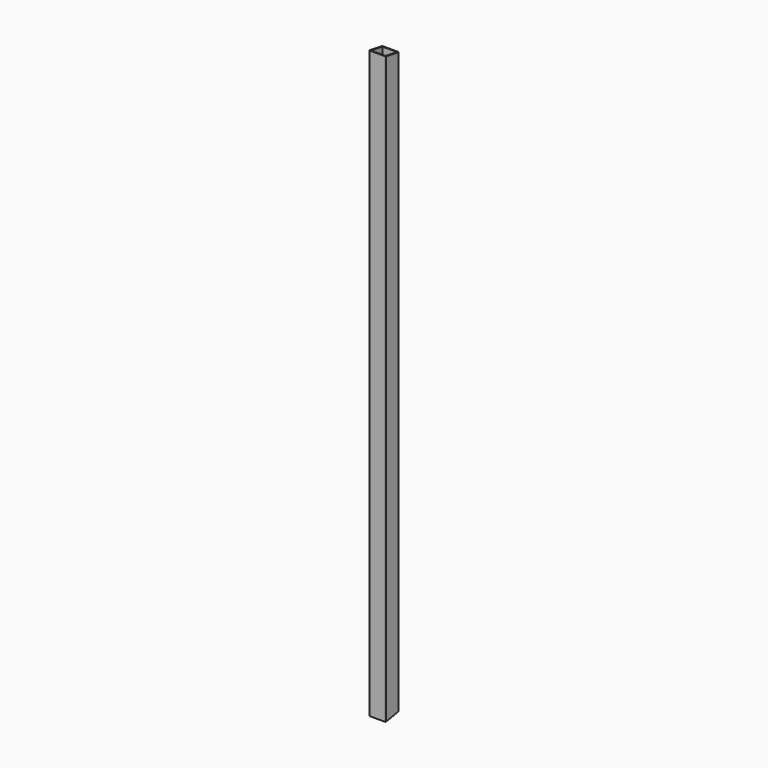
from build123d import *

# Parameters (mm, degrees)
SKETCH_W     = 25
SKETCH_H     = 25
SKETCH_W_2   = 22
SKETCH_H_2   = 22
PAD_DEPTH    = 882
FILLET_R     = 0.74
POCKET_DEPTH = 25.001


with BuildPart() as part:
    # Sketch → Pad (new body)
    with BuildSketch(Plane.XY):
        with Locations((12.5, 12.5)):
            Rectangle(SKETCH_W, SKETCH_H)
        with Locations((12.5, 12.5)):
            Rectangle(SKETCH_W_2, SKETCH_H_2, mode=Mode.SUBTRACT)
    extrude(amount=PAD_DEPTH)

    # Fillet
    fillet_edges = [part.edges().sort_by_distance(p)[0] for p in [
        (25, 0, 441),
        (0, 0, 441),
        (25, 25, 441),
        (0, 25, 441),
    ]]
    fillet(fillet_edges, radius=FILLET_R)

    # Sketch001 (on Face6 of Fillet) → Pocket (cut, through all)
    with BuildSketch(Plane(origin=(0, 0, 0), x_dir=(0, -1, 0), z_dir=(-1, 0, 0))):
        Polygon((0, 882), (-46.854502, 873.738287), (-48.019741, 909.975952), align=None)
        Polygon((0, 0), (-35.255848, -14.284037), (-39.064261, 6.888083), align=None)
    extrude(amount=-POCKET_DEPTH, mode=Mode.SUBTRACT)


solid = part.part
